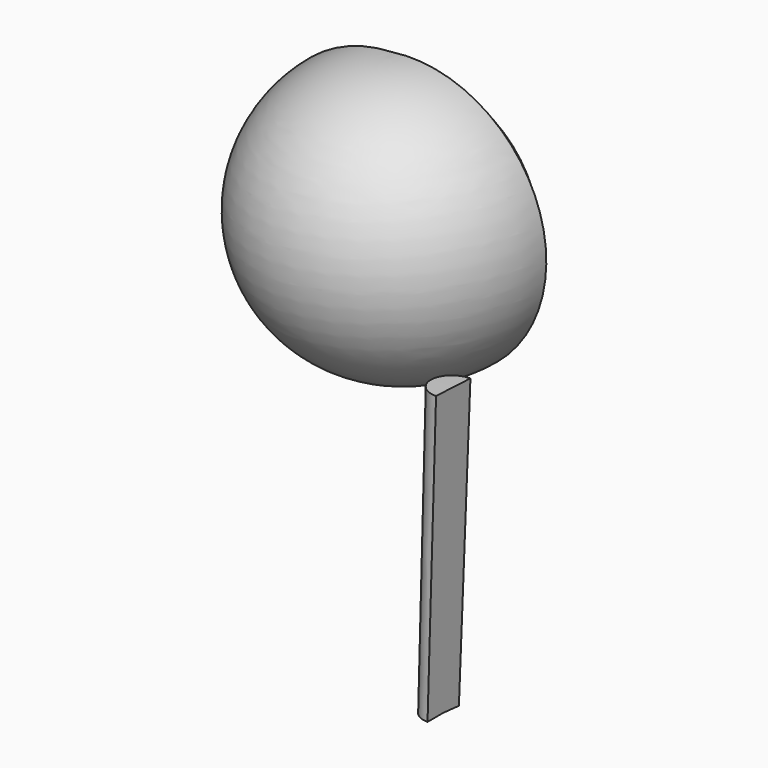
from build123d import *

# Parameters (mm, degrees)
F1_ANGLE = 180
F3_ANGLE = 180
F4_R     = 24.2663085854
F5_DEPTH = 7.62


with BuildPart() as f1:
    # F0 (on Front) → F1 (revolve)
    with BuildSketch(Plane.XZ):
        with BuildLine():
            Line((-38.7196275934, 13.2255986375), (-38.2800213993, 8.3463666961))
            ThreePointArc((-38.2800213993, 8.3463666961), (-7.5495005614, 43.3208717732), (-44.0366044641, 72.2392424941))
            Line((-44.0366044641, 72.2392424941), (-43.5969982699, 67.3600105527))
            ThreePointArc((-43.5969982699, 67.3600105527), (-12.4213336536, 42.8819321962), (-38.7196275934, 13.2255986375))
        make_face()
    revolve(axis=Axis((-41.1583129317, 0, 40.2928045951), (0.0897339434, 0, -0.9959657722)), revolution_arc=F1_ANGLE)


with BuildPart() as f3:
    # F2 (on Right) → F3 (revolve)
    with BuildSketch(Plane.YZ):
        Polygon((-36.8508817573, 31.6169658247), (-41.9459577987, 31.8088370815), (-44.467875052, -35.1598188281), (-39.8106686771, -35.1598188281), align=None)
    revolve(axis=Axis((0, -38.3307752172, -1.7714265017), (0, -0.0442801168, -0.9990191546)), revolution_arc=F3_ANGLE)


with BuildPart() as f5:
    # F4 (on Front) → F5 (new body, symmetric)
    with BuildSketch(Plane.XZ):
        with Locations((-39.4293889403, 40.580611676)):
            Circle(F4_R)
    extrude(amount=F5_DEPTH, both=True)


solid = Compound([f1.part, f3.part, f5.part])
